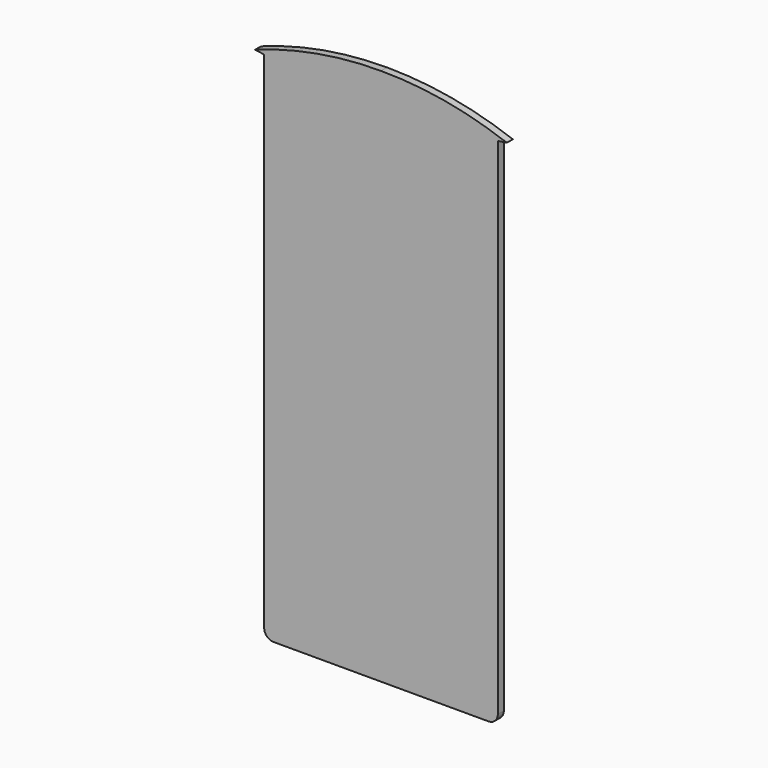
from build123d import *

# Parameters (mm, degrees)
F1_DEPTH = 0.8


with BuildPart() as f1:
    # F0 (on Front) → F1 (new body)
    with BuildSketch(Plane.XZ):
        with BuildLine():
            Line((0, -18.353604), (0, 36.646396))
            Line((0, 36.646396), (-12.5, 36.646396))
            Line((-12.5, 36.646396), (-12.5, -17.353604))
            ThreePointArc((-12.5, -17.353604), (-12.207107, -18.060711), (-11.5, -18.353604))
            Line((-11.5, -18.353604), (0, -18.353604))
        make_face()
        with BuildLine():
            Line((-12.5, 36.646396), (0, 36.646396))
            Line((0, 36.646396), (12.5, 36.646396))
            Line((12.5, 36.646396), (13.469037, 36.789905))
            ThreePointArc((13.469037, 36.789905), (6.839549, 38.576322), (0, 39.177953))
            ThreePointArc((0, 39.177953), (-6.839549, 38.576322), (-13.469037, 36.789905))
            Line((-13.469037, 36.789905), (-12.5, 36.646396))
        make_face()
        with BuildLine():
            Line((12.5, 36.646396), (0, 36.646396))
            Line((0, 36.646396), (0, -18.353604))
            Line((0, -18.353604), (11.5, -18.353604))
            ThreePointArc((11.5, -18.353604), (12.207107, -18.060711), (12.5, -17.353604))
            Line((12.5, -17.353604), (12.5, 36.646396))
        make_face()
    extrude(amount=F1_DEPTH)


solid = f1.part
